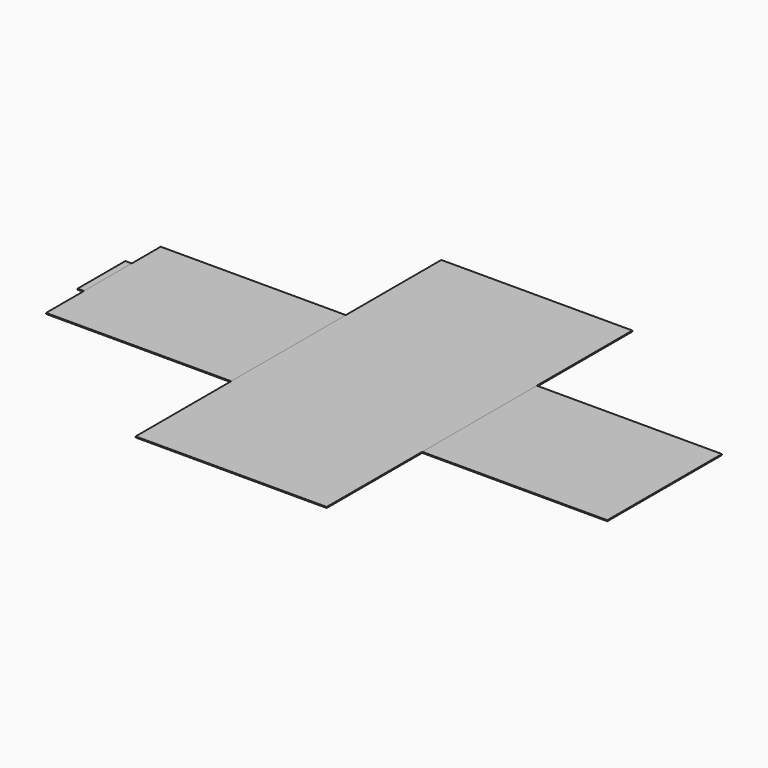
from build123d import *

# Parameters (mm, degrees)
F0_W     = 1612.9
F0_H     = 57.15
F1_DEPTH = 3.175
F2_W     = 1612.9
F2_H     = 38.1
F3_DEPTH = 3.175
F4_W     = 1790.7
F4_H     = 457.2
F5_DEPTH = 3.175
F7_DEPTH = 3.175
F8_W     = 609.6
F8_H     = 1219.2
F9_DEPTH = 3.175


with BuildPart() as f1:
    # F0 (on Top) → F1 (new body)
    with BuildSketch(Plane.XY):
        Polygon((-895.35, 95.25), (-895.35, -95.25), (-806.45, -95.25), (806.45, -95.25), (895.35, -95.25), (895.35, 95.25), (806.45, 95.25), (-806.45, 95.25), align=None)
        with Locations((0, 123.825)):
            Rectangle(F0_W, F0_H)
        with Locations((0, -123.825)):
            Rectangle(F0_W, F0_H)
    extrude(amount=F1_DEPTH)


with BuildPart() as f3:
    # F2 (on Top) → F3 (new body)
    with BuildSketch(Plane.XY):
        Polygon((-915.861635, 113.197696), (-915.861635, -77.302304), (-826.961635, -77.302304), (785.938365, -77.302304), (874.838365, -77.302304), (874.838365, 113.197696), (785.938365, 113.197696), (-826.961635, 113.197696), align=None)
        with Locations((-20.511635, 132.247696)):
            Rectangle(F2_W, F2_H)
        with Locations((-20.511635, -96.352304)):
            Rectangle(F2_W, F2_H)
    extrude(amount=F3_DEPTH)


with BuildPart() as f5:
    # F4 (on Top) → F5 (new body)
    with BuildSketch(Plane.XY):
        Rectangle(F4_W, F4_H)
    extrude(amount=F5_DEPTH)


with BuildPart() as f7:
    # F6 (on Top) → F7 (new body)
    with BuildSketch(Plane.XY):
        Polygon((0, 203.2), (0, 0), (203.2, 0), align=None)
    extrude(amount=F7_DEPTH)


with BuildPart() as f9:
    # F8 (on Top) → F9 (new body)
    with BuildSketch(Plane.XY):
        Rectangle(F8_W, F8_H)
    extrude(amount=F9_DEPTH)


solid = Compound([f1.part, f3.part, f5.part, f7.part, f9.part])
